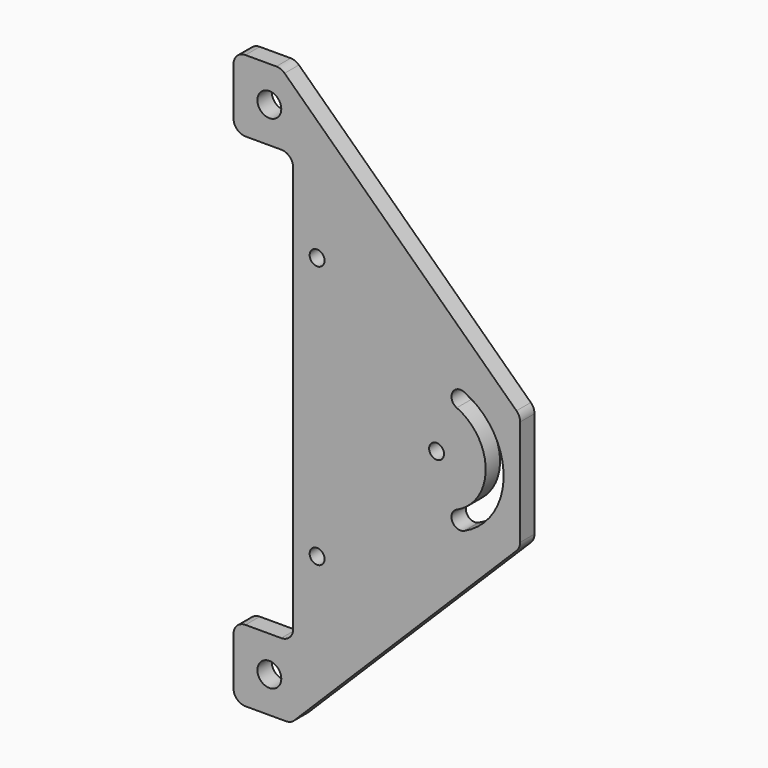
from build123d import *

# Parameters (mm, degrees)
F0_R     = 6.35
F1_DEPTH = 9.525
F2_D     = 7.9375


with BuildPart() as f1:
    # F0 (on Front) → F1 (new body)
    with BuildSketch(Plane.XZ):
        with BuildLine():
            Line((76.2, -28.1686), (76.2, 28.1686))
            ThreePointArc((76.2, 28.1686), (75.6890722442, 30.6641430927), (74.2385085583, 32.7580980808))
            Line((74.2385085583, 32.7580980808), (-49.0417475627, 150.6394980808))
            ThreePointArc((-49.0417475627, 150.6394980808), (-51.0660239849, 151.9434630233), (-53.4302561211, 152.4))
            Line((-53.4302561211, 152.4), (-69.8495712494, 152.4))
            ThreePointArc((-69.8495712494, 152.4), (-74.3398508885, 150.5399764769), (-76.1995712349, 146.0495712639))
            Line((-76.1995712349, 146.0495712639), (-76.197856327, 120.6501128256))
            ThreePointArc((-76.197856327, 120.6501128256), (-74.3380242773, 116.1600246552), (-69.8479691527, 114.3001128266))
            Line((-69.8479691527, 114.3001128266), (-50.7979691557, 114.2997743497))
            ThreePointArc((-50.7979691557, 114.2997743497), (-46.3078741417, 112.4398226308), (-44.4480819823, 107.9496615251))
            Line((-44.4480819823, 107.9496615251), (-44.4519180538, -107.9503384408))
            ThreePointArc((-44.4519180538, -107.9503384408), (-46.3118298823, -112.4403935654), (-50.8019180528, -114.3002256152))
            Line((-50.8019180528, -114.3002256152), (-69.850000004, -114.3002256152))
            ThreePointArc((-69.850000004, -114.3002256152), (-74.3400482968, -116.1600177883), (-76.2, -120.65))
            Line((-76.2, -120.65), (-76.2, -146.05))
            ThreePointArc((-76.2, -146.05), (-74.3401280605, -150.5401280605), (-69.85, -152.4))
            Line((-69.85, -152.4), (-48.3453483747, -152.4))
            ThreePointArc((-48.3453483747, -152.4), (-45.9191803183, -151.9182372619), (-43.861150015, -150.5460499408))
            Line((-43.861150015, -150.5460499408), (74.2293103448, -32.7668758621))
            ThreePointArc((74.2293103448, -32.7668758621), (75.6865709406, -30.669987546), (76.2, -28.1686))
        make_face()
        with Locations((-57.15, -133.3500654614)):
            Circle(F0_R, mode=Mode.SUBTRACT)
        with Locations((-57.1459382772, 133.333966136)):
            Circle(F0_R, mode=Mode.SUBTRACT)
        with BuildLine():
            ThreePointArc((42.4925458609, 23.8269667194), (40.1083667194, 30.1260541391), (46.4074541391, 32.5102332806))
            ThreePointArc((46.4074541391, 32.5102332806), (67.411691348, 0), (46.4074541391, -32.5102332806))
            ThreePointArc((46.4074541391, -32.5102332806), (40.1083667194, -30.1260541391), (42.4925458609, -23.8269667194))
            ThreePointArc((42.4925458609, -23.8269667194), (57.886691348, 0), (42.4925458609, 23.8269667194))
        make_face(mode=Mode.SUBTRACT)
    extrude(amount=F1_DEPTH)

    # F2 (through all)
    with Locations(Plane(origin=(0, 0, 0), x_dir=(1, 0, 0), z_dir=(0, 1, 0))):
        with Locations((31.75, 0), (-31.7444263581, -69.8504291124), (-31.75, 69.85)):
            Hole(F2_D / 2)


solid = f1.part
